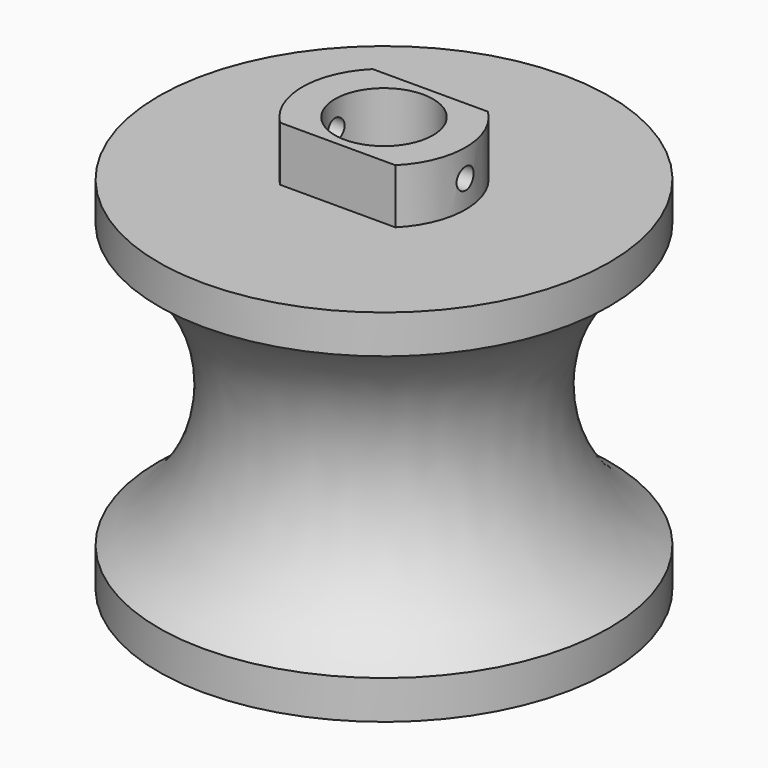
from build123d import *

# Parameters (mm, degrees)
F3_R      = 12.7
F4_DEPTH  = 64.501
F5_DEPTH  = 73
F6_R      = 7.62
F7_DEPTH  = 73.001
F8_W      = 30
F8_H      = 4.40173278
F9_DEPTH  = 8.5
F12_D     = 3.3
F12_DEPTH = 30
F12_TIP   = 0.9914200214


with BuildPart() as f1:
    # F0 (on Front) → F1 (revolve)
    with BuildSketch(Plane.XZ):
        with BuildLine():
            Line((0, -28.1334591306), (0, 27.8665408694))
            Line((0, 27.8665408694), (-35, 27.8665408694))
            Line((-35, 27.8665408694), (-35, 21.8665408694))
            ThreePointArc((-35, 21.8665408694), (-23, -0.1334591306), (-35, -22.1334591306))
            Line((-35, -22.1334591306), (-35, -28.1334591306))
            Line((-35, -28.1334591306), (0, -28.1334591306))
        make_face()
    revolve(axis=Axis((0, 0, -0.1334591306), (0, 0, -1)))

    # F3 (on offset) → F4 (cut, through all)
    with BuildSketch(Plane.XY.offset(36.3665408694)):
        Circle(F3_R)
    extrude(amount=-F4_DEPTH, mode=Mode.SUBTRACT)

    # F3 (on offset) → F5 (join)
    with BuildSketch(Plane.XY.offset(36.3665408694)):
        Circle(F3_R)
    extrude(amount=-F5_DEPTH)

    # F6 (on face) → F7 (cut, through all)
    with BuildSketch(Plane.XY.offset(36.3665408694)):
        Circle(F6_R)
    extrude(amount=-F7_DEPTH, mode=Mode.SUBTRACT)

    # F8 (on face) → F9 (cut)
    with BuildSketch(Plane.XY.offset(36.3665408694)):
        with Locations((0, -11.20086639)):
            Rectangle(F8_W, F8_H)
        Polygon((-15, 9), (15, 9), (15.7737210393, 16.7225152254), (-15, 16.7225152254), align=None)
    extrude(amount=-F9_DEPTH, mode=Mode.SUBTRACT)

    # F12
    with Locations(Plane.YZ.offset(12.7)):
        with Locations((0, 32.1165408694)):
            Hole(F12_D / 2, depth=F12_DEPTH)
            with Locations((0, 0, -(F12_DEPTH + F12_TIP / 2))):  # 118° drill point
                Cone(0, F12_D / 2, F12_TIP, mode=Mode.SUBTRACT)


solid = f1.part
